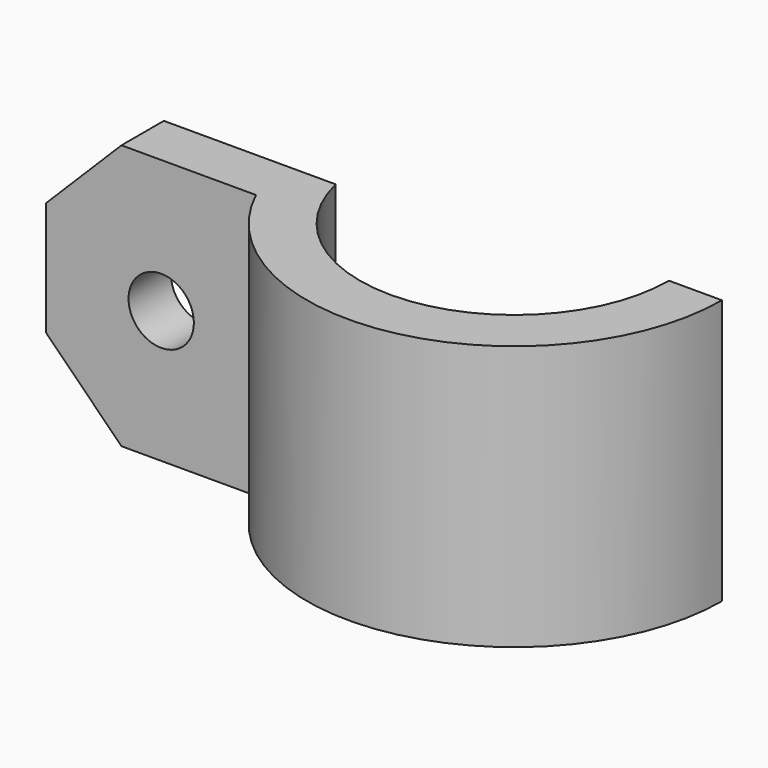
from build123d import *

# Parameters (mm, degrees)
SKETCH017_R       = 1.85
EXTRUDE014_DEPTH  = 12
CYLINDER007_R     = 5
CYLINDER007_DEPTH = 1
EXTRUDE013_DEPTH  = 15


with BuildPart() as extrude014:
    # Sketch017 → Extrude014 (new body)
    with BuildSketch(Plane.XZ):
        Polygon((11.75, 36), (11.75, 19), (-17.25, 19), (-23.25, 25), (-23.25, 30), (-17.25, 36), align=None)
        with Locations((-16, 27.481564)):
            Circle(SKETCH017_R, mode=Mode.SUBTRACT)
    extrude(amount=-EXTRUDE014_DEPTH)


with BuildPart() as unprintable:
    # Cylinder007 → Cylinder007 (new body)
    with BuildSketch(Plane(origin=(-16, 18, 27.5), x_dir=(1, 0, 0), z_dir=(0, -1, 0))):
        Circle(CYLINDER007_R)
    extrude(amount=CYLINDER007_DEPTH)


with BuildPart() as body007:
    # Sketch018 → Extrude013 (new body)
    with BuildSketch(Plane.XY.offset(50)):
        with BuildLine():
            ThreePointArc((8.75, 0), (1.006685, 8.691898), (-8.518363, 2))
            Line((-8.518363, 2), (-22.518363, 2))
            Line((-22.518363, 5), (-22.518363, 2))
            Line((-10.633085, 5), (-22.518363, 5))
            ThreePointArc((11.75, 0), (2.561616, 11.467372), (-10.633085, 5))
            Line((8.75, 0), (11.75, 0))
        make_face()
    extrude(amount=EXTRUDE013_DEPTH)


with BuildPart() as body007_1:
    # Extrude013 placement: moved
    add(body007.part.moved(Location((0, 0, -30))))

    # Fusion016: union unprintable
    add(unprintable.part)

    # Common001: intersect Extrude014
    add(extrude014.part, mode=Mode.INTERSECT)


with BuildPart() as part_mirroring008:
    # Part__Mirroring008: instance of Body007
    add(body007_1.part.mirror(Plane(origin=(0, 0, 0), x_dir=(1, 0, 0), z_dir=(0, 1, 0))))


solid = part_mirroring008.part
